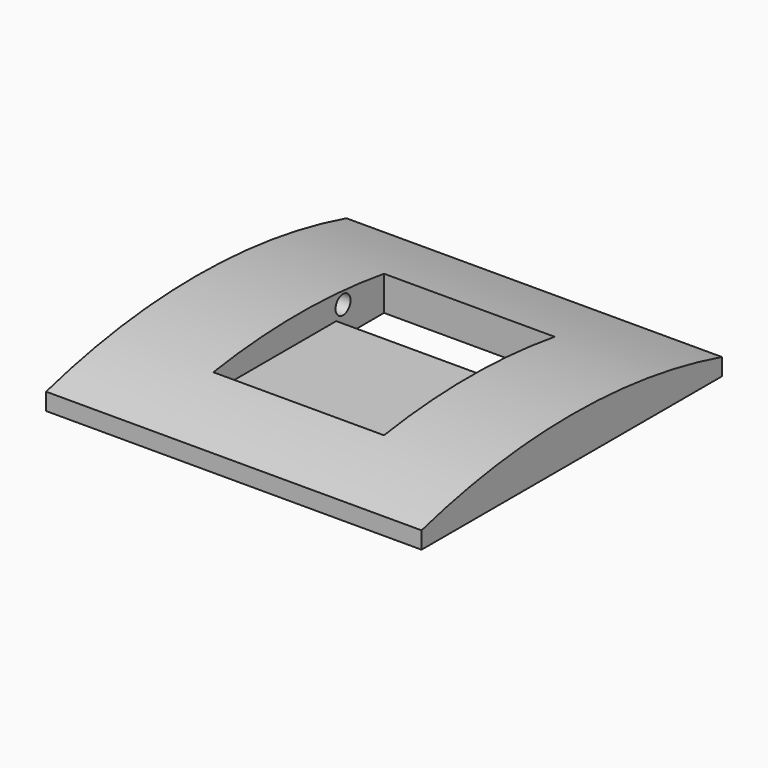
from build123d import *

# Parameters (mm, degrees)
PAD001_DEPTH    = 22
SKETCH_W        = 44
SKETCH_H        = 5
PAD_DEPTH       = 22
SKETCH001_W     = 20
SKETCH001_H     = 25
POCKET_DEPTH    = 3
SKETCH003_R     = 1.1
POCKET001_DEPTH = 5
SKETCH004_R     = 1.1
POCKET002_DEPTH = 5
SKETCH005_W     = 20
SKETCH005_H     = 7
POCKET003_DEPTH = 2.001
SKETCH007_R     = 2
POCKET004_DEPTH = 3.5


with BuildPart() as pad001:
    # Sketch002 → Pad001 (new body, symmetric)
    with BuildSketch(Plane.YZ):
        with BuildLine():
            Line((-22, 0), (22, 0))
            Line((22, 0), (22, 2))
            ThreePointArc((22, 2), (0, 5), (-22, 2))
            Line((-22, 2), (-22, 0))
        make_face()
    extrude(amount=PAD001_DEPTH, both=True)


with BuildPart() as obj1:
    # Sketch → Pad (new body, symmetric)
    with BuildSketch(Plane.XZ):
        with Locations((0, 2.5)):
            Rectangle(SKETCH_W, SKETCH_H)
    extrude(amount=PAD_DEPTH, both=True)

    # Sketch001 → Pocket (cut)
    with BuildSketch(Plane(origin=(0, 0, 5), x_dir=(-1, 0, 0), z_dir=(0, 0, 1))):
        Rectangle(SKETCH001_W, SKETCH001_H)
    extrude(amount=-POCKET_DEPTH, mode=Mode.SUBTRACT)

    # Common: intersect Pad001
    add(pad001.part, mode=Mode.INTERSECT)

    # Sketch003 → Pocket001 (cut)
    with BuildSketch(Plane.YZ.offset(-10)):
        with Locations((6.5, 3.3)):
            Circle(SKETCH003_R)
    extrude(amount=-POCKET001_DEPTH, mode=Mode.SUBTRACT)

    # Sketch004 → Pocket002 (cut)
    with BuildSketch(Plane(origin=(10, 0, 0), x_dir=(0, -1, 0), z_dir=(-1, 0, 0))):
        with Locations((-6.5, 3.3)):
            Circle(SKETCH004_R)
    extrude(amount=-POCKET002_DEPTH, mode=Mode.SUBTRACT)

    # Sketch005 → Pocket003 (cut, through all)
    with BuildSketch(Plane.XY.offset(2)):
        with Locations((0, 9)):
            Rectangle(SKETCH005_W, SKETCH005_H)
    extrude(amount=-POCKET003_DEPTH, mode=Mode.SUBTRACT)

    # Sketch007 → Pocket004 (cut)
    with BuildSketch(Plane(origin=(0, 0, 0), x_dir=(1, 0, 0), z_dir=(0, 0, -1))):
        with Locations((-16, 0)):
            Circle(SKETCH007_R)
        with Locations((16, 0)):
            Circle(SKETCH007_R)
    extrude(amount=-POCKET004_DEPTH, mode=Mode.SUBTRACT)


solid = obj1.part
